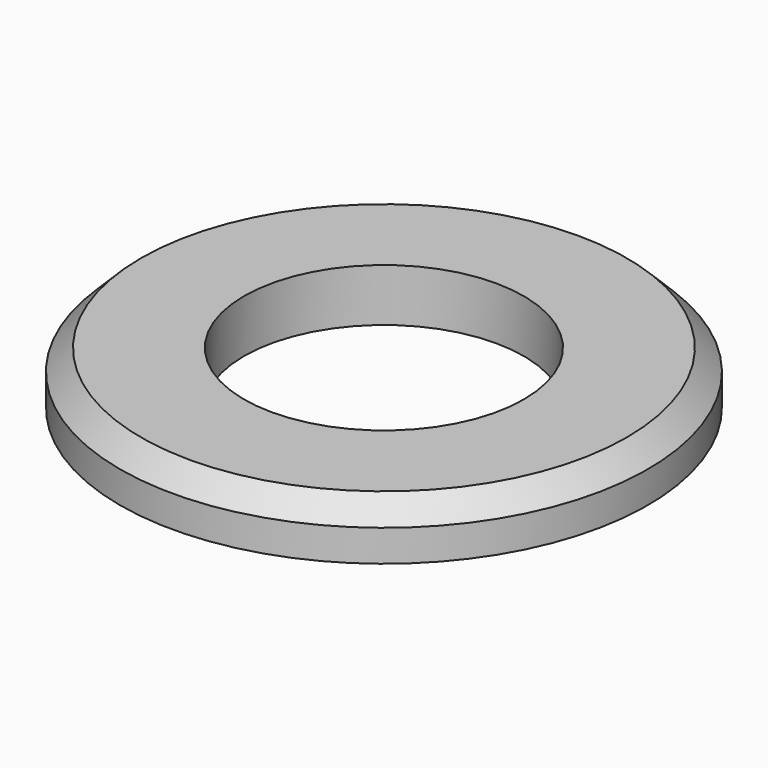
from build123d import *


with BuildPart() as part:
    # Sketch → Revolution (revolve)
    with BuildSketch(Plane.YZ):
        Polygon((2.65, 0), (5, 0), (5, 0.6), (4.6, 1), (2.65, 1), align=None)
    revolve(axis=Axis((0, 0, 0), (0, 0, 1)))


solid = part.part
